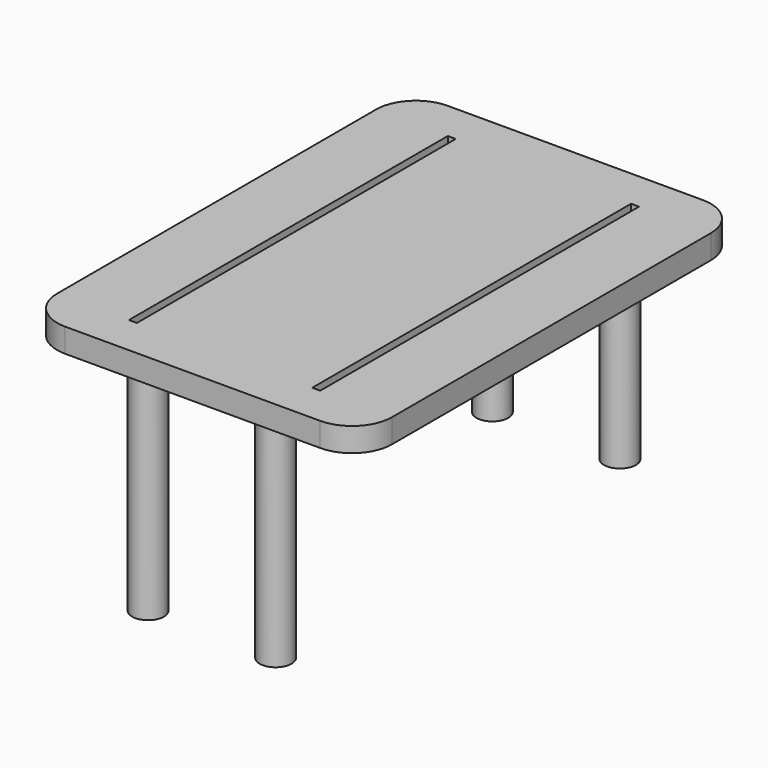
from build123d import *

# Parameters (mm, degrees)
F0_W     = 558.8
F0_H     = 1524
F1_DEPTH = 76.2
F2_R     = 50.8
F3_DEPTH = 685.8
F5_DEPTH = 76.2
F6_R     = 127


with BuildPart() as f1:
    # F0 (on Top) → F1 (new body)
    with BuildSketch(Plane.XY):
        Rectangle(F0_W, F0_H)
    extrude(amount=F1_DEPTH)

    # F2 (on face) → F3 (join)
    with BuildSketch(Plane(origin=(0, 0, 0), x_dir=(1, 0, 0), z_dir=(0, 0, -1))):
        with Locations((-203.2, -685.8)):
            Circle(F2_R)
        with Locations((203.2, -685.8)):
            Circle(F2_R)
        with Locations((203.231033, 685.8)):
            Circle(F2_R)
        with Locations((-203.2, 685.8)):
            Circle(F2_R)
    extrude(amount=F3_DEPTH)

    # F4 (on face) → F5 (join)
    with BuildSketch(Plane.XY.offset(76.2)):
        Polygon((-279.4, 635), (-279.4, 762), (-533.4, 762), (-533.4, -762), (-279.4, -762), (-279.4, -635), (-304.8, -635), (-304.8, 635), align=None)
        Polygon((533.4, 762), (279.4, 762), (279.4, 635), (304.8, 635), (304.8, -635), (279.4, -635), (279.4, -762), (533.4, -762), align=None)
    extrude(amount=-F5_DEPTH)

    # F6
    f6_edges = [f1.edges().sort_by_distance(p)[0] for p in [
        (-533.4, -762, 38.1),
        (533.4, -762, 38.1),
        (533.4, 762, 38.1),
        (-533.4, 762, 38.1),
    ]]
    fillet(f6_edges, radius=F6_R)


solid = f1.part
